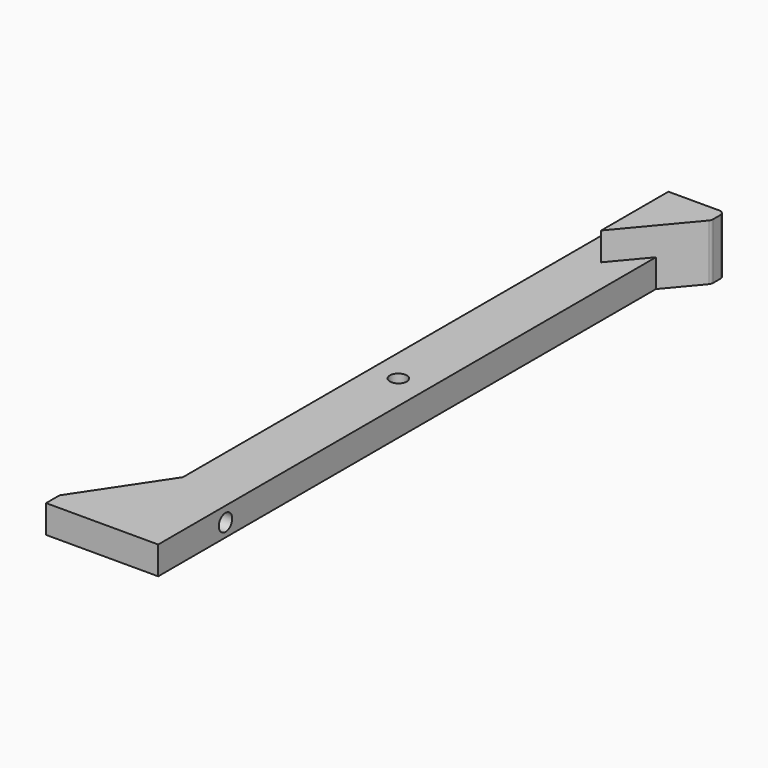
from build123d import *

# Parameters (mm, degrees)
F0_W      = 60
F0_H      = 10
F1_DEPTH  = 5
F4_DEPTH  = 5
F6_DEPTH  = 5
F7_DEPTH  = 5
F9_D      = 3
F11_R     = 1
F13_D     = 3
F13_DEPTH = 4
F13_TIP   = 0.9012909285
F14_ANGLE = -90


with BuildPart() as f1:
    # F0 (on Right) → F1 (new body)
    with BuildSketch(Plane.YZ):
        with Locations((30, 10.0670714118)):
            Rectangle(F0_W, F0_H)
    extrude(amount=-F1_DEPTH)

    # F2: F1 across plane


with BuildPart() as f1_1:
    add(f1.part)
    add(f1.part.mirror(Plane.XZ))

    # F3 (on Right) → F4 (join)
    with BuildSketch(Plane.YZ):
        Polygon((-60, 25.0670714118), (-60, 15.0670714118), (-42, 15.0670714118), (-57, 25.0670714118), align=None)
    extrude(amount=-F4_DEPTH)

    # F9 (through all)
    with Locations(Plane.YZ):
        with Locations((0, 10.2355619892)):
            Hole(F9_D / 2)


with BuildPart() as f6:
    # F5 (on face) → F6 (new body)
    with BuildSketch(Plane.YZ):
        Polygon((57, 0), (60, 0), (60, 10.0670714118), (45, 10.0670714118), align=None)
    extrude(amount=F6_DEPTH)


with BuildPart() as f7:
    # F5 (on face) → F7 (new body)
    with BuildSketch(Plane.YZ):
        Polygon((57, 0), (60, 0), (60, 10.0670714118), (45, 10.0670714118), align=None)
    extrude(amount=-F7_DEPTH)


with BuildPart() as f1_2:
    add(f1_1.part)

    # F10: union F6, F7
    add(f6.part)
    add(f7.part)

    # F11
    f11_edges = [f1_2.edges().sort_by_distance(p)[0] for p in [
        (0, 57, 0),
        (0, 60, 0),
    ]]
    fillet(f11_edges, radius=F11_R)

    # F13
    with Locations(Plane(origin=(0, 0, 5.0670714118), x_dir=(1, 0, 0), z_dir=(0, 0, -1))):
        with Locations((-2.6265240659, 45.0005336208)):
            Hole(F13_D / 2, depth=F13_DEPTH)
            with Locations((0, 0, -(F13_DEPTH + F13_TIP / 2))):  # 118° drill point
                Cone(0, F13_D / 2, F13_TIP, mode=Mode.SUBTRACT)


with BuildPart() as f1_3:
    # F14: moved
    add(f1_2.part.rotate(Axis((0, 9, 15.0670714118), (0, 1, 0)), F14_ANGLE))


solid = f1_3.part
